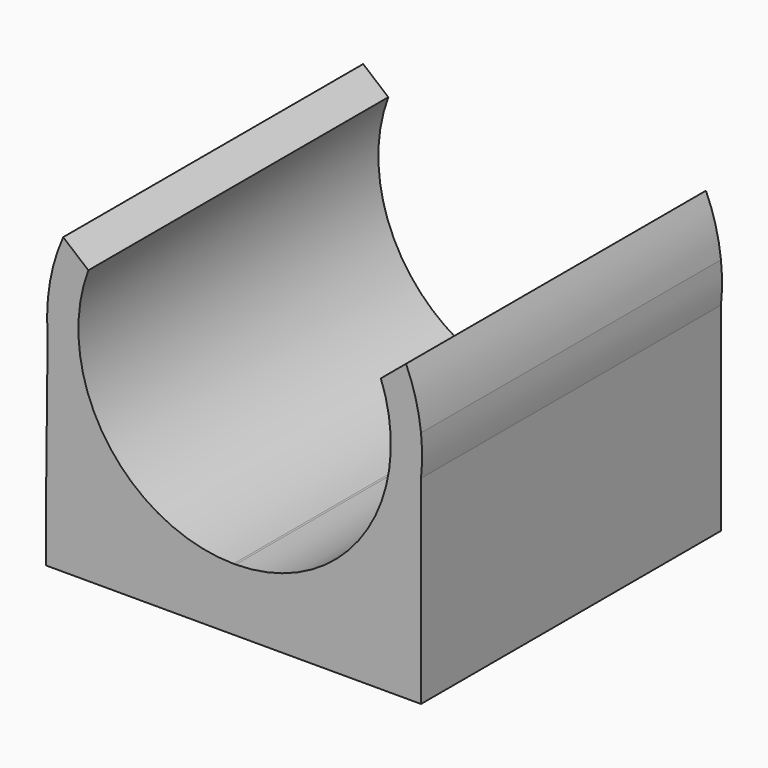
from build123d import *

# Parameters (mm, degrees)
F1_DEPTH = 30


with BuildPart() as f1:
    # F0 (on Front) → F1 (new body)
    with BuildSketch(Plane.XZ):
        with BuildLine():
            Line((-43.236702, 0), (-13.236702, 0))
            Line((-13.236702, 0), (-13.236702, 5))
            Line((-13.236702, 5), (-13.236702, 15.904253))
            Line((-13.236702, 15.904253), (-13.236702, 19.095168))
            ThreePointArc((-13.236702, 19.095168), (-13.662541, 21.381314), (-14.43662, 23.574167))
            Line((-14.43662, 23.574167), (-16.449004, 21.892771))
            ThreePointArc((-16.449004, 21.892771), (-17.85215, 10.416553), (-28.06652, 5))
            ThreePointArc((-28.06652, 5), (-28.151611, 4.99971), (-28.236702, 5))
            ThreePointArc((-28.236702, 5), (-38.451071, 10.416553), (-39.854218, 21.892771))
            Line((-39.854218, 21.892771), (-41.866602, 23.574167))
            ThreePointArc((-41.866602, 23.574167), (-42.661058, 21.304438), (-43.0826, 18.936921))
            Line((-43.0826, 18.936921), (-43.110728, 16.392998))
            Line((-43.110728, 16.392998), (-43.236702, 5))
            Line((-43.236702, 5), (-43.236702, 0))
        make_face()
        with BuildLine():
            Line((-13.236702, 19.095168), (-13.236702, 15.904253))
            ThreePointArc((-13.236702, 15.904253), (-13.151611, 17.49971), (-13.236702, 19.095168))
        make_face()
        with BuildLine():
            ThreePointArc((-43.0826, 18.936921), (-43.150694, 17.665557), (-43.110728, 16.392998))
            Line((-43.110728, 16.392998), (-43.0826, 18.936921))
        make_face()
        with BuildLine():
            ThreePointArc((-28.236702, 5), (-28.151611, 4.99971), (-28.06652, 5))
            Line((-28.06652, 5), (-28.236702, 5))
        make_face()
    extrude(amount=F1_DEPTH)


solid = f1.part
